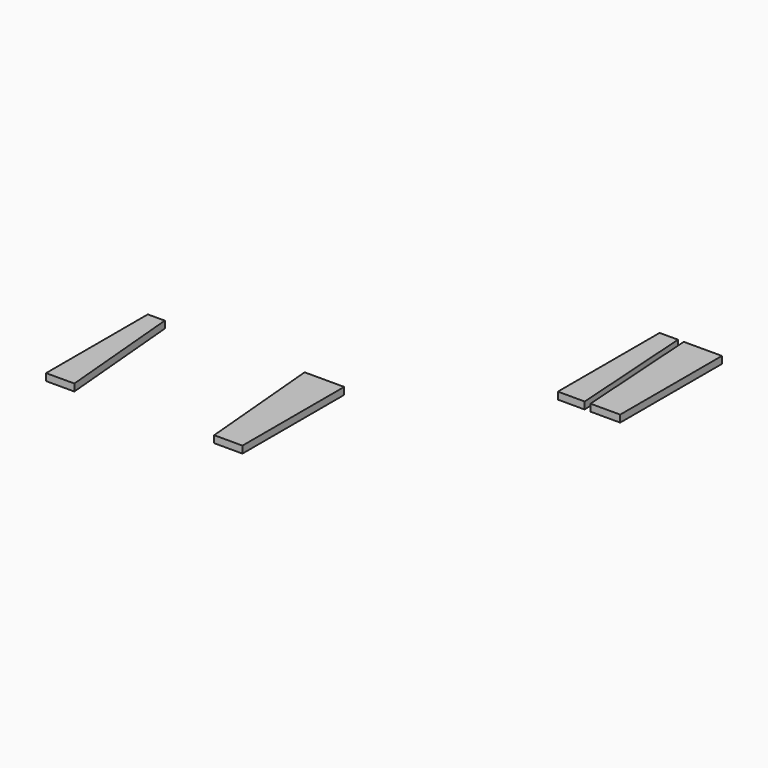
from build123d import *

# Parameters (mm, degrees)
F1_DEPTH = 25
F3_DEPTH = 25


with BuildPart() as f1:
    # F0 (on Top) → F1 (new body)
    with BuildSketch(Plane.XY):
        Polygon((-2096.341906, 1480.133367), (-2161.341906, 1480.133367), (-2161.341906, 1030.133367), (-2066.341906, 1030.133367), align=None)
        Polygon((-1940.851974, 1480.133414), (-2075.851974, 1480.133414), (-2045.851974, 1030.133414), (-1940.851974, 1030.133414), align=None)
    extrude(amount=F1_DEPTH)


with BuildPart() as f3:
    # F2 (on Top) → F3 (new body)
    with BuildSketch(Plane.XY):
        Polygon((-2640.013981, 683.245656), (-2780.013981, 683.245656), (-2740.013981, 233.245656), (-2640.013981, 233.245656), align=None)
        Polygon((-3234.846497, 233.245656), (-3274.846497, 683.245656), (-3334.846497, 683.245656), (-3334.846497, 233.245656), align=None)
    extrude(amount=F3_DEPTH)


solid = Compound([f1.part, f3.part])
